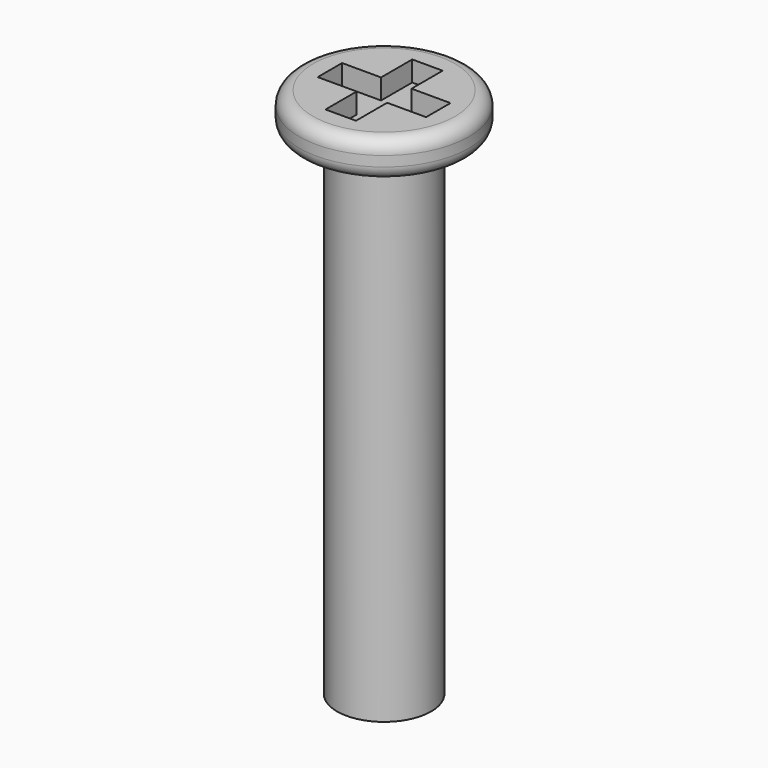
from build123d import *

# Parameters (mm, degrees)
F0_R     = 1.25
F1_DEPTH = 0.55
F2_R     = 0.695
F3_DEPTH = 7.3
F4_W     = 0.45
F4_H     = 0.45
F4_H_2   = 0.575
F4_W_2   = 0.575
F5_DEPTH = 0.3
F6_R     = 0.2


with BuildPart() as f1:
    # F0 (on Top) → F1 (new body)
    with BuildSketch(Plane.XY):
        Circle(F0_R)
    extrude(amount=F1_DEPTH)

    # F2 (on face) → F3 (join)
    with BuildSketch(Plane(origin=(0, 0, 0), x_dir=(1, 0, 0), z_dir=(0, 0, -1))):
        Circle(F2_R)
    extrude(amount=F3_DEPTH)

    # F4 (on face) → F5 (cut)
    with BuildSketch(Plane.XY.offset(0.55)):
        Rectangle(F4_W, F4_H)
        with Locations((0, 0.5125)):
            Rectangle(F4_W, F4_H_2)
        with Locations((-0.5125, 0)):
            Rectangle(F4_W_2, F4_H)
        with Locations((0, -0.5125)):
            Rectangle(F4_W, F4_H_2)
        with Locations((0.5125, 0)):
            Rectangle(F4_W_2, F4_H)
    extrude(amount=-F5_DEPTH, mode=Mode.SUBTRACT)

    # F6
    f6_edges = [f1.edges().sort_by_distance(p)[0] for p in [
        (-1.25, 0, 0.55),
        (-1.25, 0, 0),
    ]]
    fillet(f6_edges, radius=F6_R)


solid = f1.part
